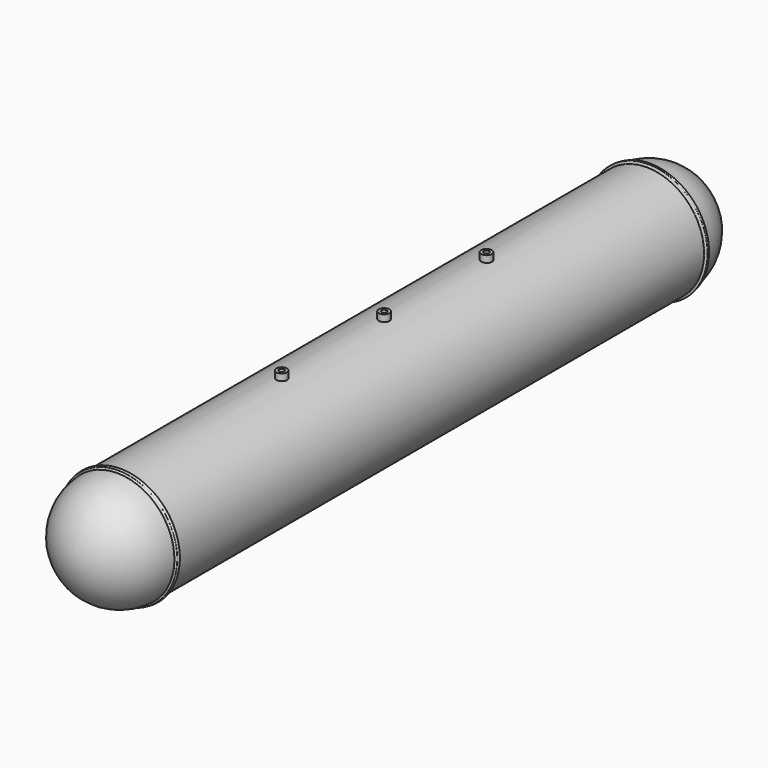
from build123d import *

# Parameters (mm, degrees)
F0_R     = 136.525
F0_R_2   = 127
F1_DEPTH = 1574.8
F5_R     = 12.7
F5_R_2   = 6.35
F6_DEPTH = 25.4


with BuildPart() as f1:
    # F0 (on Front) → F1 (new body)
    with BuildSketch(Plane.XZ):
        Circle(F0_R)
        Circle(F0_R_2, mode=Mode.SUBTRACT)
    extrude(amount=F1_DEPTH)

    # F2 (on Right) → F3 (revolve)
    with BuildSketch(Plane.YZ):
        with BuildLine():
            Line((0, 0), (136.525, 0))
            ThreePointArc((136.525, 0), (98.9284820223, 94.0862958659), (6.8457314447, 136.353260269))
            Line((6.8457314447, 136.353260269), (0, 136.4521149075))
            Line((0, 136.4521149075), (0, 0))
        make_face()
        with BuildLine():
            Line((0, 136.4521149075), (6.8457314447, 136.353260269))
            ThreePointArc((6.8457314447, 136.353260269), (3.423942667, 136.482058314), (0, 136.525))
            Line((0, 136.525), (0, 136.4521149075))
        make_face()
        with BuildLine():
            ThreePointArc((0, 136.525), (3.423942667, 136.482058314), (6.8457314447, 136.353260269))
            add(Edge.make_bspline(
                [(6.8457314447, 136.353260269), (5.7824151022, 138.3536849373), (4.0580651373, 141.3974031645), (2.3438322094, 139.4203961526), (1.2561210215, 137.9972233778), (-1.0918971479, 141.802676565), (-4.2071942491, 141.3052873344), (-4.1001255789, 137.2063143325), (-5.4390684969, 136.7350808217), (-5.9970407747, 136.5387141705)],
                knots=[0, 0, 0, 0, 0.2004270974, 0.3177218929, 0.4147372024, 0.5849634183, 0.717618805, 0.8827052046, 1, 1, 1, 1], degree=3))
            Line((-5.9970407747, 136.5387141705), (0, 136.4521149075))
            Line((0, 136.4521149075), (0, 136.525))
        make_face()
        with BuildLine():
            ThreePointArc((-1574.8, 136.525), (-1578.223942667, 136.482058314), (-1581.6457314447, 136.353260269))
            Line((-1581.6457314447, 136.353260269), (-1574.8, 136.4521149075))
            Line((-1574.8, 136.4521149075), (-1574.8, 136.525))
        make_face()
        with BuildLine():
            Line((-1574.8, 136.4521149075), (-1581.6457314447, 136.353260269))
            ThreePointArc((-1581.6457314447, 136.353260269), (-1673.7284820223, 94.0862958659), (-1711.325, 0))
            Line((-1711.325, 0), (-1574.8, 0))
            Line((-1574.8, 0), (-1574.8, 136.4521149075))
        make_face()
        with BuildLine():
            add(Edge.make_bspline(
                [(-1581.6457314447, 136.353260269), (-1580.5824151022, 138.3536849373), (-1578.8580651373, 141.3974031645), (-1577.1438322094, 139.4203961526), (-1576.0561210215, 137.9972233778), (-1573.7081028521, 141.802676565), (-1570.5928057509, 141.3052873344), (-1570.6998744211, 137.2063143325), (-1569.3609315031, 136.7350808217), (-1568.8029592253, 136.5387141705)],
                knots=[0, 0, 0, 0, 0.2004270974, 0.3177218929, 0.4147372024, 0.5849634183, 0.717618805, 0.8827052046, 1, 1, 1, 1], degree=3))
            ThreePointArc((-1581.6457314447, 136.353260269), (-1578.223942667, 136.482058314), (-1574.8, 136.525))
            Line((-1574.8, 136.525), (-1574.8, 136.4521149075))
            Line((-1574.8, 136.4521149075), (-1568.8029592253, 136.5387141705))
        make_face()
    revolve(axis=Axis((0, -393.7, 0), (0, -1, 0)))

    # F5 (on offset) → F6 (join)
    with BuildSketch(Plane.XY.offset(127)):
        with Locations((0, -787.4)):
            Circle(F5_R)
        with Locations((0, -787.4)):
            Circle(F5_R_2, mode=Mode.SUBTRACT)
        with Locations((0, -482.6)):
            Circle(F5_R)
        with Locations((0, -482.6)):
            Circle(F5_R_2, mode=Mode.SUBTRACT)
        with Locations((0, -1092.2)):
            Circle(F5_R)
        with Locations((0, -1092.2)):
            Circle(F5_R_2, mode=Mode.SUBTRACT)
    extrude(amount=F6_DEPTH)


solid = f1.part
